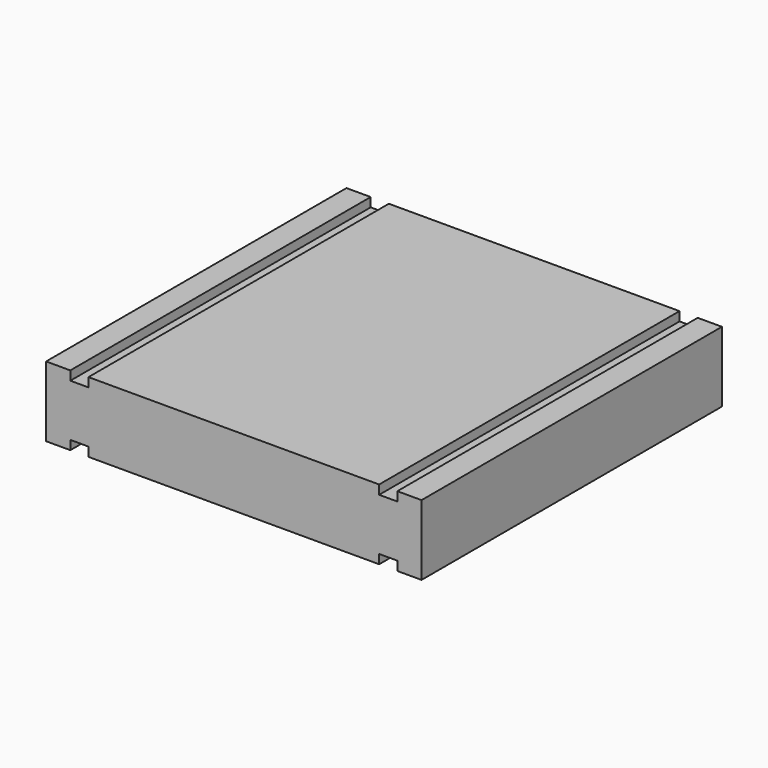
from build123d import *

# Parameters (mm, degrees)
F0_W     = 62
F0_H     = 62
F1_DEPTH = 11.6
F2_W     = 3
F2_H     = 1.5
F3_DEPTH = 62


with BuildPart() as f1:
    # F0 (on Top) → F1 (new body)
    with BuildSketch(Plane.XY):
        Rectangle(F0_W, F0_H)
    extrude(amount=F1_DEPTH)

    # F2 (on face) → F3 (cut)
    with BuildSketch(Plane.XZ.offset(31)):
        with Locations((-25.5, 10.85)):
            Rectangle(F2_W, F2_H)
        with Locations((-25.5, 0.75)):
            Rectangle(F2_W, F2_H)
        with Locations((25.5, 10.85)):
            Rectangle(F2_W, F2_H)
        with Locations((25.5, 0.75)):
            Rectangle(F2_W, F2_H)
    extrude(amount=-F3_DEPTH, mode=Mode.SUBTRACT)


solid = f1.part
